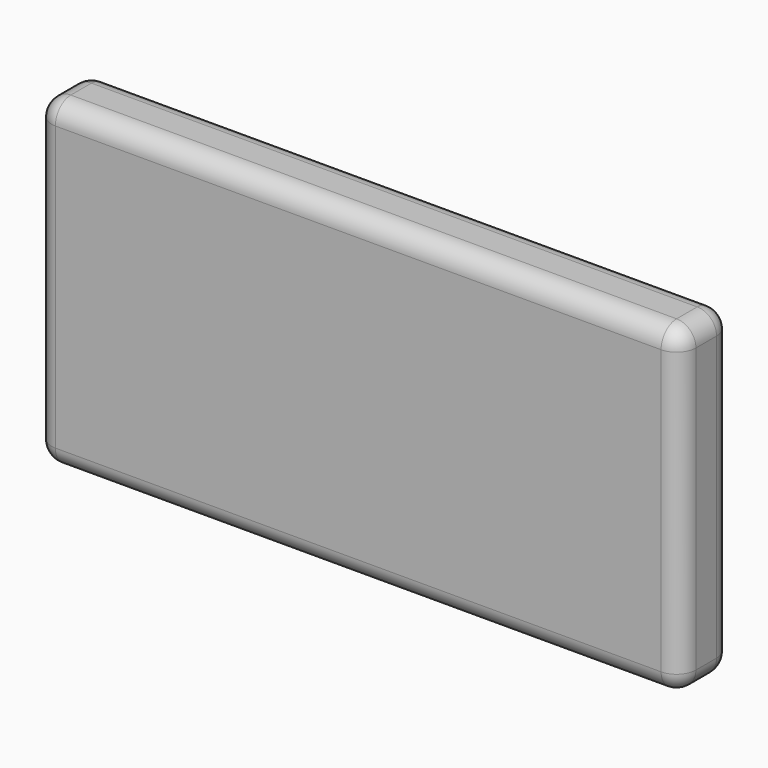
from build123d import *

# Parameters (mm, degrees)
F0_W     = 254
F0_H     = 127
F1_DEPTH = 25.4
F2_R     = 7.62


with BuildPart() as f1:
    # F0 (on Front) → F1 (new body)
    with BuildSketch(Plane.XZ):
        Rectangle(F0_W, F0_H)
        Rectangle(F0_W, F0_H)
    extrude(amount=F1_DEPTH)

    # F2
    f2_edges = [f1.edges().sort_by_distance(p)[0] for p in [
        (-127, -12.7, -63.5),
        (127, -12.7, -63.5),
        (0, 0, -63.5),
        (0, -25.4, -63.5),
        (-127, -12.7, 63.5),
        (-127, 0, 0),
        (-127, -25.4, 0),
        (127, -12.7, 63.5),
        (127, 0, 0),
        (127, -25.4, 0),
        (0, 0, 63.5),
        (0, -25.4, 63.5),
    ]]
    fillet(f2_edges, radius=F2_R)


solid = f1.part
